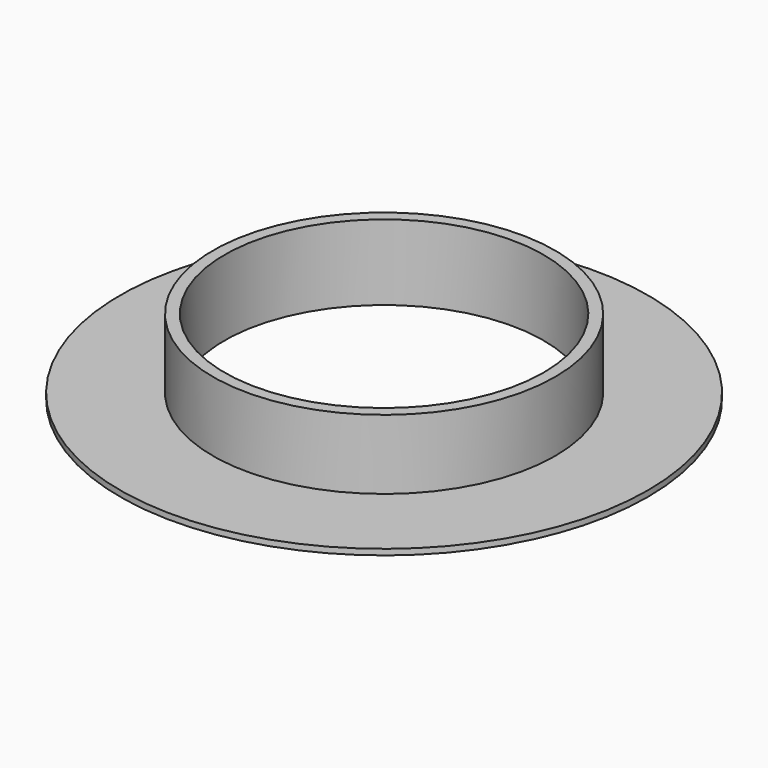
from build123d import *

# Parameters (mm, degrees)
REVOLVE_ONTO_SKETCH_ROLL_ANGLE = 90


with BuildPart() as part:
    # Sketch as drawn → Revolve (revolve)
    with BuildSketch(Plane.XY):
        Polygon((27.5, 0), (45.5, 0), (45.5, 1), (29.5, 1), (29.5, 13), (27.5, 13), align=None)
    revolve(axis=Axis((0, 0, 0), (0, 1, 0)))


with BuildPart() as part_1:
    # Revolve onto Sketch roll: moved
    add(part.part.rotate(Axis((0, 0, 0), (1, 0, 0)), REVOLVE_ONTO_SKETCH_ROLL_ANGLE))


with BuildPart() as part_2:
    # Revolve onto Sketch placement: moved
    add(part_1.part)


solid = part_2.part
